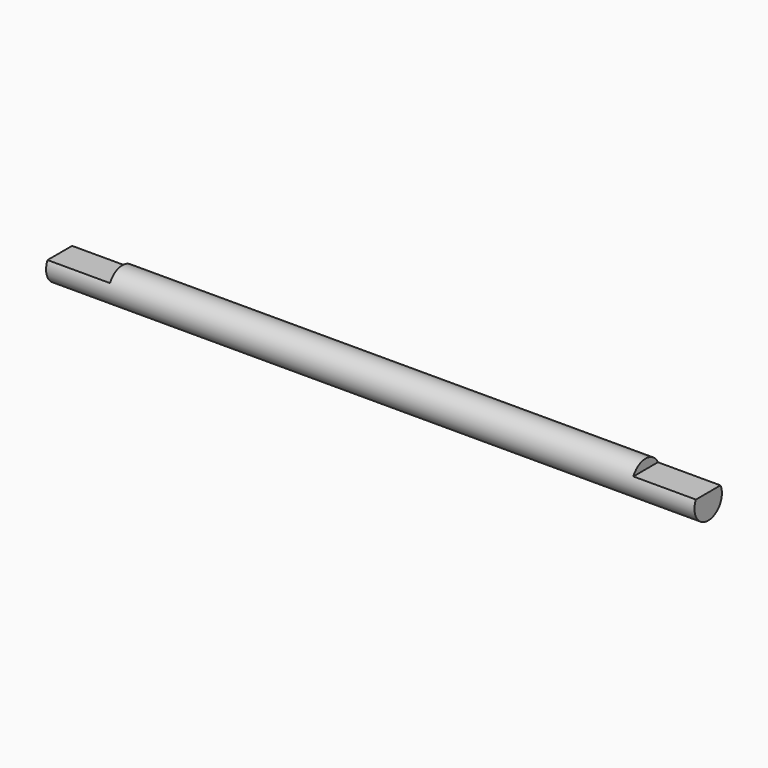
from build123d import *

# Parameters (mm, degrees)
F0_R     = 2.25
F1_DEPTH = 85
F3_W     = 8.2
F3_H     = 17.972744
F3_H_2   = 20.743802
F4_DEPTH = 25


with BuildPart() as f1:
    # F0 (on Right) → F1 (new body)
    with BuildSketch(Plane.YZ):
        Circle(F0_R)
    extrude(amount=F1_DEPTH)

    # F3 (on offset) → F4 (cut)
    with BuildSketch(Plane.XY.offset(1)):
        with Locations((4.1, -0.105816)):
            Rectangle(F3_W, F3_H)
        with Locations((80.9, -0.062075)):
            Rectangle(F3_W, F3_H_2)
    extrude(amount=F4_DEPTH, mode=Mode.SUBTRACT)


solid = f1.part
